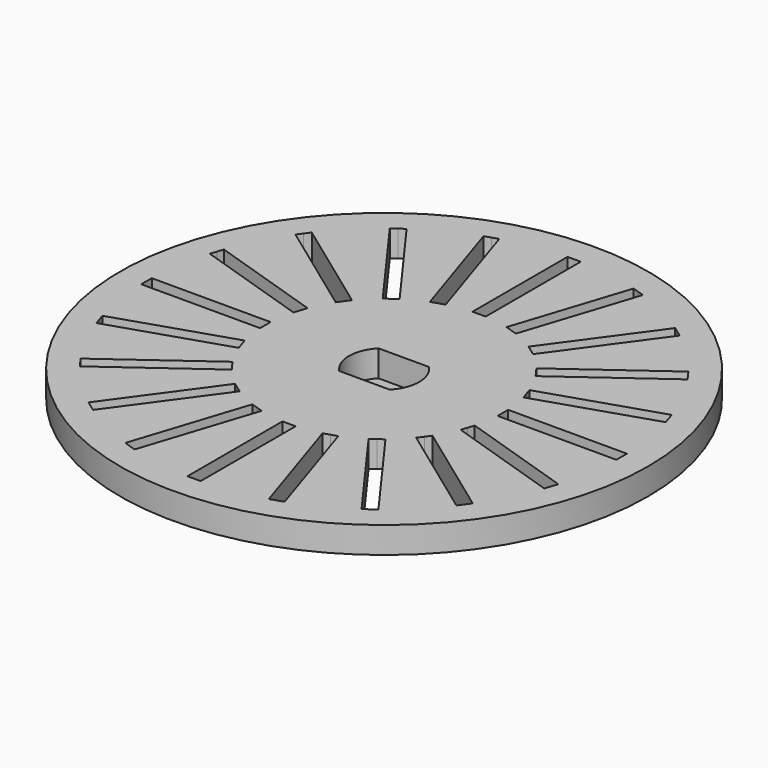
from build123d import *

# Parameters (mm, degrees)
F0_R     = 20
F1_DEPTH = 2
F2_R     = 5
F2_R_2   = 1.1
F3_DEPTH = 1.5


with BuildPart() as f1:
    # F0 (on Top) → F1 (new body)
    with BuildSketch(Plane.XY):
        Circle(F0_R)
        Polygon((-10.984643, -14.268413), (-5.694576, -6.98726), (-5.290067, -7.281153), (-4.885559, -7.575046), (-10.175626, -14.856199), (-10.580135, -14.562306), align=None, mode=Mode.SUBTRACT)
        Polygon((-6.037834, -16.964509), (-3.256681, -8.405), (-2.781153, -8.559509), (-2.305625, -8.714017), (-5.086778, -17.273526), (-5.562306, -17.119017), align=None, mode=Mode.SUBTRACT)
        Polygon((-14.856199, -10.175626), (-7.575046, -4.885559), (-7.281153, -5.290067), (-6.98726, -5.694576), (-14.268413, -10.984643), (-14.562306, -10.580135), align=None, mode=Mode.SUBTRACT)
        Polygon((-17.273526, -5.086778), (-8.714017, -2.305625), (-8.559509, -2.781153), (-8.405, -3.256681), (-16.964509, -6.037834), (-17.119017, -5.562306), align=None, mode=Mode.SUBTRACT)
        Polygon((-0.5, -9), (0, -9), (0.5, -9), (0.5, -18), (0, -18), (-0.5, -18), align=None, mode=Mode.SUBTRACT)
        Polygon((5.086778, -17.273526), (2.305625, -8.714017), (2.781153, -8.559509), (3.256681, -8.405), (6.037834, -16.964509), (5.562306, -17.119017), align=None, mode=Mode.SUBTRACT)
        Polygon((10.175626, -14.856199), (4.885559, -7.575046), (5.290067, -7.281153), (5.694576, -6.98726), (10.984643, -14.268413), (10.580135, -14.562306), align=None, mode=Mode.SUBTRACT)
        Polygon((14.268413, -10.984643), (6.98726, -5.694576), (7.281153, -5.290067), (7.575046, -4.885559), (14.856199, -10.175626), (14.562306, -10.580135), align=None, mode=Mode.SUBTRACT)
        Polygon((16.964509, -6.037834), (8.405, -3.256681), (8.559509, -2.781153), (8.714017, -2.305625), (17.273526, -5.086778), (17.119017, -5.562306), align=None, mode=Mode.SUBTRACT)
        Polygon((-18, 0.5), (-9, 0.5), (-9, 0), (-9, -0.5), (-18, -0.5), (-18, 0), align=None, mode=Mode.SUBTRACT)
        Polygon((-16.964509, 6.037834), (-8.405, 3.256681), (-8.559509, 2.781153), (-8.714017, 2.305625), (-17.273526, 5.086778), (-17.119017, 5.562306), align=None, mode=Mode.SUBTRACT)
        Polygon((-14.268413, 10.984643), (-6.98726, 5.694576), (-7.281153, 5.290067), (-7.575046, 4.885559), (-14.856199, 10.175626), (-14.562306, 10.580135), align=None, mode=Mode.SUBTRACT)
        Polygon((-10.175626, 14.856199), (-4.885559, 7.575046), (-5.290067, 7.281153), (-5.694576, 6.98726), (-10.984643, 14.268413), (-10.580135, 14.562306), align=None, mode=Mode.SUBTRACT)
        Polygon((-5.086778, 17.273526), (-2.305625, 8.714017), (-2.781153, 8.559509), (-3.256681, 8.405), (-6.037834, 16.964509), (-5.562306, 17.119017), align=None, mode=Mode.SUBTRACT)
        with BuildLine():
            ThreePointArc((-1.908566, -1.86), (-2.665, 0), (-1.908566, 1.86))
            Line((-1.908566, 1.86), (1.908566, 1.86))
            ThreePointArc((1.908566, 1.86), (2.665, 0), (1.908566, -1.86))
            Line((1.908566, -1.86), (-1.908566, -1.86))
        make_face(mode=Mode.SUBTRACT)
        Polygon((18, -0.5), (9, -0.5), (9, 0), (9, 0.5), (18, 0.5), (18, 0), align=None, mode=Mode.SUBTRACT)
        Polygon((17.273526, 5.086778), (8.714017, 2.305625), (8.559509, 2.781153), (8.405, 3.256681), (16.964509, 6.037834), (17.119017, 5.562306), align=None, mode=Mode.SUBTRACT)
        Polygon((14.856199, 10.175626), (7.575046, 4.885559), (7.281153, 5.290067), (6.98726, 5.694576), (14.268413, 10.984643), (14.562306, 10.580135), align=None, mode=Mode.SUBTRACT)
        Polygon((0.5, 18), (0.5, 9), (0, 9), (-0.5, 9), (-0.5, 18), (0, 18), align=None, mode=Mode.SUBTRACT)
        Polygon((6.037834, 16.964509), (3.256681, 8.405), (2.781153, 8.559509), (2.305625, 8.714017), (5.086778, 17.273526), (5.562306, 17.119017), align=None, mode=Mode.SUBTRACT)
        Polygon((10.984643, 14.268413), (5.694576, 6.98726), (5.290067, 7.281153), (4.885559, 7.575046), (10.175626, 14.856199), (10.580135, 14.562306), align=None, mode=Mode.SUBTRACT)
        Circle(F0_R)
        Polygon((-10.984643, -14.268413), (-5.694576, -6.98726), (-5.290067, -7.281153), (-4.885559, -7.575046), (-10.175626, -14.856199), (-10.580135, -14.562306), align=None, mode=Mode.SUBTRACT)
        Polygon((-6.037834, -16.964509), (-3.256681, -8.405), (-2.781153, -8.559509), (-2.305625, -8.714017), (-5.086778, -17.273526), (-5.562306, -17.119017), align=None, mode=Mode.SUBTRACT)
        Polygon((-14.856199, -10.175626), (-7.575046, -4.885559), (-7.281153, -5.290067), (-6.98726, -5.694576), (-14.268413, -10.984643), (-14.562306, -10.580135), align=None, mode=Mode.SUBTRACT)
        Polygon((-17.273526, -5.086778), (-8.714017, -2.305625), (-8.559509, -2.781153), (-8.405, -3.256681), (-16.964509, -6.037834), (-17.119017, -5.562306), align=None, mode=Mode.SUBTRACT)
        Polygon((-0.5, -9), (0, -9), (0.5, -9), (0.5, -18), (0, -18), (-0.5, -18), align=None, mode=Mode.SUBTRACT)
        Polygon((5.086778, -17.273526), (2.305625, -8.714017), (2.781153, -8.559509), (3.256681, -8.405), (6.037834, -16.964509), (5.562306, -17.119017), align=None, mode=Mode.SUBTRACT)
        Polygon((10.175626, -14.856199), (4.885559, -7.575046), (5.290067, -7.281153), (5.694576, -6.98726), (10.984643, -14.268413), (10.580135, -14.562306), align=None, mode=Mode.SUBTRACT)
        Polygon((14.268413, -10.984643), (6.98726, -5.694576), (7.281153, -5.290067), (7.575046, -4.885559), (14.856199, -10.175626), (14.562306, -10.580135), align=None, mode=Mode.SUBTRACT)
        Polygon((16.964509, -6.037834), (8.405, -3.256681), (8.559509, -2.781153), (8.714017, -2.305625), (17.273526, -5.086778), (17.119017, -5.562306), align=None, mode=Mode.SUBTRACT)
        Polygon((-18, 0.5), (-9, 0.5), (-9, 0), (-9, -0.5), (-18, -0.5), (-18, 0), align=None, mode=Mode.SUBTRACT)
        Polygon((-16.964509, 6.037834), (-8.405, 3.256681), (-8.559509, 2.781153), (-8.714017, 2.305625), (-17.273526, 5.086778), (-17.119017, 5.562306), align=None, mode=Mode.SUBTRACT)
        Polygon((-14.268413, 10.984643), (-6.98726, 5.694576), (-7.281153, 5.290067), (-7.575046, 4.885559), (-14.856199, 10.175626), (-14.562306, 10.580135), align=None, mode=Mode.SUBTRACT)
        Polygon((-10.175626, 14.856199), (-4.885559, 7.575046), (-5.290067, 7.281153), (-5.694576, 6.98726), (-10.984643, 14.268413), (-10.580135, 14.562306), align=None, mode=Mode.SUBTRACT)
        Polygon((-5.086778, 17.273526), (-2.305625, 8.714017), (-2.781153, 8.559509), (-3.256681, 8.405), (-6.037834, 16.964509), (-5.562306, 17.119017), align=None, mode=Mode.SUBTRACT)
        with BuildLine():
            ThreePointArc((-1.908566, -1.86), (-2.665, 0), (-1.908566, 1.86))
            Line((-1.908566, 1.86), (1.908566, 1.86))
            ThreePointArc((1.908566, 1.86), (2.665, 0), (1.908566, -1.86))
            Line((1.908566, -1.86), (-1.908566, -1.86))
        make_face(mode=Mode.SUBTRACT)
        Polygon((18, -0.5), (9, -0.5), (9, 0), (9, 0.5), (18, 0.5), (18, 0), align=None, mode=Mode.SUBTRACT)
        Polygon((17.273526, 5.086778), (8.714017, 2.305625), (8.559509, 2.781153), (8.405, 3.256681), (16.964509, 6.037834), (17.119017, 5.562306), align=None, mode=Mode.SUBTRACT)
        Polygon((14.856199, 10.175626), (7.575046, 4.885559), (7.281153, 5.290067), (6.98726, 5.694576), (14.268413, 10.984643), (14.562306, 10.580135), align=None, mode=Mode.SUBTRACT)
        Polygon((0.5, 18), (0.5, 9), (0, 9), (-0.5, 9), (-0.5, 18), (0, 18), align=None, mode=Mode.SUBTRACT)
        Polygon((6.037834, 16.964509), (3.256681, 8.405), (2.781153, 8.559509), (2.305625, 8.714017), (5.086778, 17.273526), (5.562306, 17.119017), align=None, mode=Mode.SUBTRACT)
        Polygon((10.984643, 14.268413), (5.694576, 6.98726), (5.290067, 7.281153), (4.885559, 7.575046), (10.175626, 14.856199), (10.580135, 14.562306), align=None, mode=Mode.SUBTRACT)
    extrude(amount=F1_DEPTH)

    # F2 (on Top) → F3 (join)
    with BuildSketch(Plane.XY):
        Circle(F2_R)
        Circle(F2_R_2, mode=Mode.SUBTRACT)
    extrude(amount=-F3_DEPTH)


solid = f1.part
